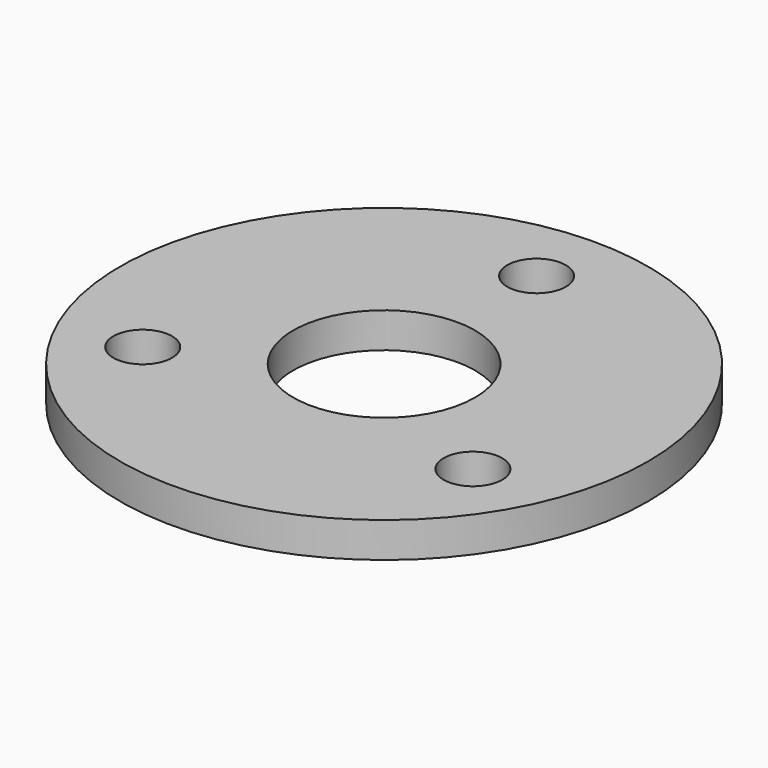
from build123d import *

# Parameters (mm, degrees)
F0_R     = 22.5
F0_R_2   = 7.75
F1_DEPTH = 3
F2_R     = 2.5
F3_DEPTH = 22.1


with BuildPart() as f1:
    # F0 (on Top) → F1 (new body)
    with BuildSketch(Plane.XY):
        Circle(F0_R)
        Circle(F0_R_2, mode=Mode.SUBTRACT)
    extrude(amount=F1_DEPTH)

    # F2 (on face) → F3 (cut)
    with BuildSketch(Plane.XY.offset(3)):
        with Locations((14.072913, -8.125)):
            Circle(F2_R)
        with Locations((-14.072913, -8.125)):
            Circle(F2_R)
        with Locations((0, 16.25)):
            Circle(F2_R)
    extrude(amount=-F3_DEPTH, mode=Mode.SUBTRACT)


solid = f1.part
